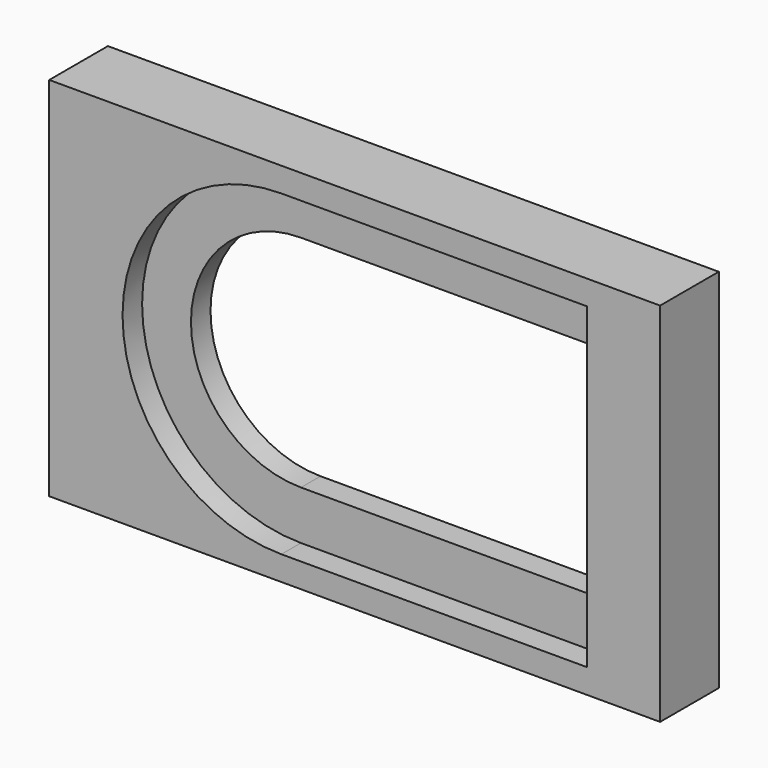
from build123d import *

# Parameters (mm, degrees)
F1_DEPTH = 3
F2_W     = 12.5
F2_H     = 13
F3_DEPTH = 1
F4_W     = 12.5
F4_H     = 13
F5_DEPTH = 1
F6_W     = 3.383816
F6_H     = 15
F7_DEPTH = 25


with BuildPart() as f1:
    # F0 (on Front) → F1 (new body)
    with BuildSketch(Plane.XZ):
        Polygon((9.25, -7.5), (9.25, 7.5), (-13.75, 7.5), (-19.133816, 7.5), (-19.133816, -7.5), (-13.75, -7.5), align=None)
        with BuildLine():
            Line((-6.25, 4.5), (6.25, 4.5))
            Line((6.25, 4.5), (6.25, -4.5))
            Line((6.25, -4.5), (-6.25, -4.5))
            ThreePointArc((-6.25, -4.5), (-10.75, 0), (-6.25, 4.5))
        make_face(mode=Mode.SUBTRACT)
    extrude(amount=F1_DEPTH)

    # F2 (on face) → F3 (cut)
    with BuildSketch(Plane.XZ.offset(3)):
        Rectangle(F2_W, F2_H)
        with BuildLine():
            Line((-6.25, -6.5), (-6.25, 6.5))
            ThreePointArc((-6.25, 6.5), (-12.75, 0), (-6.25, -6.5))
        make_face()
    extrude(amount=-F3_DEPTH, mode=Mode.SUBTRACT)

    # F4 (on face) → F5 (cut)
    with BuildSketch(Plane(origin=(0, 0, 0), x_dir=(-1, 0, 0), z_dir=(0, 1, 0))):
        Rectangle(F4_W, F4_H)
        with BuildLine():
            ThreePointArc((6.25, -6.5), (12.75, 0), (6.25, 6.5))
            Line((6.25, 6.5), (6.25, -6.5))
        make_face()
    extrude(amount=-F5_DEPTH, mode=Mode.SUBTRACT)

    # F6 (on face) → F7 (cut)
    with BuildSketch(Plane.XZ.offset(3)):
        with Locations((-17.441908, 0)):
            Rectangle(F6_W, F6_H)
    extrude(amount=-F7_DEPTH, mode=Mode.SUBTRACT)


solid = f1.part
